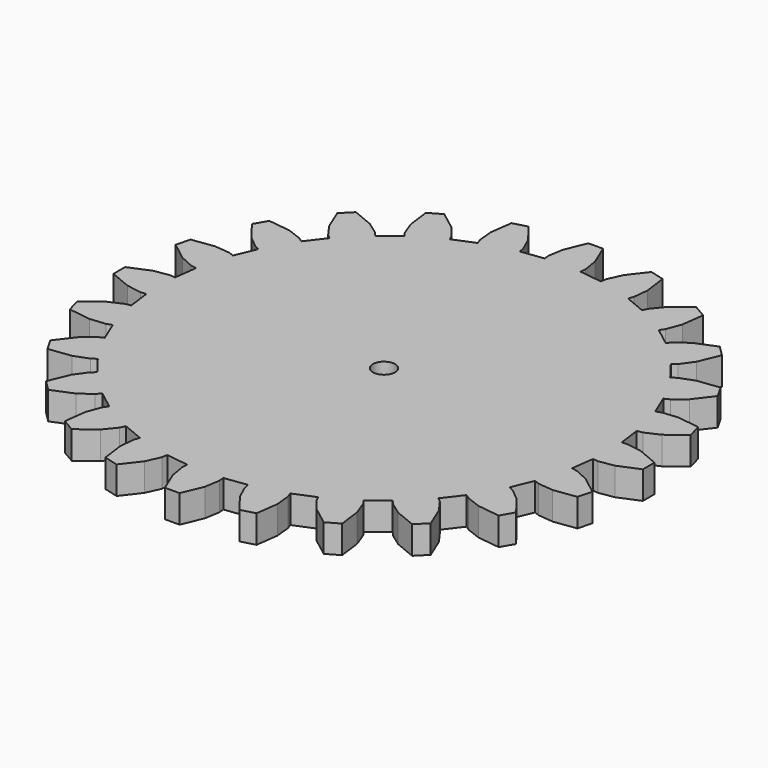
from build123d import *

# Parameters (mm, degrees)
F1_DEPTH = 10


with BuildPart() as f1:
    # F0 (on Top) → F1 (new body)
    with BuildSketch(Plane.XY):
        Polygon((82.288933, 6.626533), (80.272551, 6.464159), (79.210377, 14.532167), (81.20008, 14.897204), (86.165447, 17.139372), (92.574688, 22.093939), (91.219, 27.153432), (83.191152, 28.23959), (77.769934, 27.698683), (75.864282, 27.019961), (72.750146, 34.538149), (74.577575, 35.405723), (78.793436, 38.856621), (83.701952, 45.301199), (81.082963, 49.837416), (73.047538, 48.808806), (67.951042, 46.883213), (66.285987, 45.734399), (61.332115, 52.190416), (62.87273, 53.501397), (66.05178, 57.925857), (69.125064, 65.421256), (65.421256, 69.125064), (57.925857, 66.05178), (53.501397, 62.87273), (52.190415, 61.332116), (45.734399, 66.285988), (46.883212, 67.951042), (48.808806, 73.047538), (49.837416, 81.082964), (45.301199, 83.701952), (38.856621, 78.793436), (35.405723, 74.577575), (34.538149, 72.750146), (27.019961, 75.864282), (27.698683, 77.769934), (28.23959, 83.191152), (27.153432, 91.219), (22.093939, 92.574688), (17.139372, 86.165447), (14.897204, 81.20008), (14.532167, 79.210377), (6.464159, 80.272551), (6.626532, 82.288933), (5.745895, 87.665427), (2.618988, 95.138615), (-2.618989, 95.138615), (-5.745895, 87.665427), (-6.626533, 82.288933), (-6.464159, 80.272551), (-14.532167, 79.210377), (-14.897205, 81.20008), (-17.139373, 86.165447), (-22.093939, 92.574688), (-27.153433, 91.219), (-28.23959, 83.191152), (-27.698683, 77.769934), (-27.019962, 75.864282), (-34.53815, 72.750146), (-35.405724, 74.577575), (-38.856621, 78.793436), (-45.301199, 83.701952), (-49.837417, 81.082964), (-48.808807, 73.047538), (-46.883213, 67.951042), (-45.734399, 66.285988), (-52.190416, 61.332116), (-53.501398, 62.87273), (-57.925857, 66.05178), (-65.421256, 69.125064), (-69.125065, 65.421256), (-66.05178, 57.925857), (-62.87273, 53.501397), (-61.332116, 52.190416), (-66.285988, 45.734399), (-67.951043, 46.883213), (-73.047539, 48.808806), (-81.082964, 49.837416), (-83.701952, 45.301199), (-78.793436, 38.856621), (-74.577575, 35.405723), (-72.750147, 34.538149), (-75.864283, 27.019961), (-77.769935, 27.698683), (-83.191153, 28.23959), (-91.219001, 27.153432), (-92.574689, 22.093939), (-86.165448, 17.139372), (-81.200081, 14.897204), (-79.210377, 14.532167), (-80.272552, 6.464159), (-82.288933, 6.626533), (-87.665428, 5.745895), (-95.138616, 2.618988), (-95.138616, -2.618988), (-87.665428, -5.745895), (-82.288933, -6.626533), (-80.272552, -6.464159), (-79.210377, -14.532167), (-81.200081, -14.897205), (-86.165448, -17.139373), (-92.574689, -22.093939), (-91.219001, -27.153433), (-83.191153, -28.23959), (-77.769935, -27.698683), (-75.864283, -27.019961), (-72.750147, -34.53815), (-74.577575, -35.405723), (-78.793436, -38.856621), (-83.701952, -45.301199), (-81.082964, -49.837416), (-73.047539, -48.808807), (-67.951043, -46.883213), (-66.285988, -45.734399), (-61.332116, -52.190416), (-62.87273, -53.501397), (-66.05178, -57.925857), (-69.125065, -65.421256), (-65.421256, -69.125064), (-57.925857, -66.05178), (-53.501398, -62.87273), (-52.190416, -61.332116), (-45.734399, -66.285988), (-46.883213, -67.951042), (-48.808807, -73.047538), (-49.837417, -81.082964), (-45.301199, -83.701952), (-38.856621, -78.793436), (-35.405724, -74.577575), (-34.53815, -72.750147), (-27.019962, -75.864283), (-27.698683, -77.769935), (-28.23959, -83.191153), (-27.153433, -91.219), (-22.093939, -92.574689), (-17.139373, -86.165447), (-14.897205, -81.20008), (-14.532167, -79.210377), (-6.464159, -80.272551), (-6.626533, -82.288933), (-5.745895, -87.665427), (-2.618989, -95.138615), (2.618988, -95.138615), (5.745895, -87.665427), (6.626532, -82.288933), (6.464159, -80.272551), (14.532167, -79.210377), (14.897204, -81.20008), (17.139372, -86.165447), (22.093939, -92.574689), (27.153432, -91.219), (28.23959, -83.191153), (27.698683, -77.769935), (27.019961, -75.864283), (34.538149, -72.750147), (35.405723, -74.577575), (38.856621, -78.793436), (45.301199, -83.701952), (49.837416, -81.082964), (48.808806, -73.047538), (46.883212, -67.951042), (45.734399, -66.285988), (52.190415, -61.332116), (53.501397, -62.87273), (57.925857, -66.05178), (65.421256, -69.125064), (69.125064, -65.421256), (66.05178, -57.925857), (62.87273, -53.501397), (61.332115, -52.190416), (66.285987, -45.734399), (67.951042, -46.883213), (73.047538, -48.808807), (81.082963, -49.837416), (83.701952, -45.301199), (78.793436, -38.856621), (74.577575, -35.405723), (72.750146, -34.53815), (75.864282, -27.019961), (77.769934, -27.698683), (83.191152, -28.23959), (91.219, -27.153433), (92.574688, -22.093939), (86.165447, -17.139373), (81.20008, -14.897205), (79.210377, -14.532167), (80.272551, -6.464159), (82.288933, -6.626533), (87.665427, -5.745895), (95.138615, -2.618988), (95.138615, 2.618988), (87.665427, 5.745895), align=None)
        with BuildLine():
            add(Edge.make_bspline(
                [(2.828427, 2.828427), (3.578572, 2.078281), (4, 1.060866), (4, 0)],
                knots=[0, 0, 0, 0, 1, 1, 1, 1], degree=3))
            add(Edge.make_bspline(
                [(4, 0), (4, -1.060866), (3.578572, -2.078282), (2.828427, -2.828427)],
                knots=[0, 0, 0, 0, 1, 1, 1, 1], degree=3))
            add(Edge.make_bspline(
                [(2.828427, -2.828427), (2.078281, -3.578573), (1.060866, -4), (0, -4)],
                knots=[0, 0, 0, 0, 1, 1, 1, 1], degree=3))
            add(Edge.make_bspline(
                [(0, -4), (-1.060866, -4), (-2.078282, -3.578573), (-2.828427, -2.828427)],
                knots=[0, 0, 0, 0, 1, 1, 1, 1], degree=3))
            add(Edge.make_bspline(
                [(-2.828427, -2.828427), (-3.578573, -2.078282), (-4, -1.060866), (-4, 0)],
                knots=[0, 0, 0, 0, 1, 1, 1, 1], degree=3))
            add(Edge.make_bspline(
                [(-4, 0), (-4, 1.060866), (-3.578573, 2.078281), (-2.828427, 2.828427)],
                knots=[0, 0, 0, 0, 1, 1, 1, 1], degree=3))
            add(Edge.make_bspline(
                [(-2.828427, 2.828427), (-2.078282, 3.578572), (-1.060866, 4), (0, 4)],
                knots=[0, 0, 0, 0, 1, 1, 1, 1], degree=3))
            add(Edge.make_bspline(
                [(0, 4), (1.060866, 4), (2.078281, 3.578572), (2.828427, 2.828427)],
                knots=[0, 0, 0, 0, 1, 1, 1, 1], degree=3))
        make_face(mode=Mode.SUBTRACT)
    extrude(amount=F1_DEPTH)


solid = f1.part
